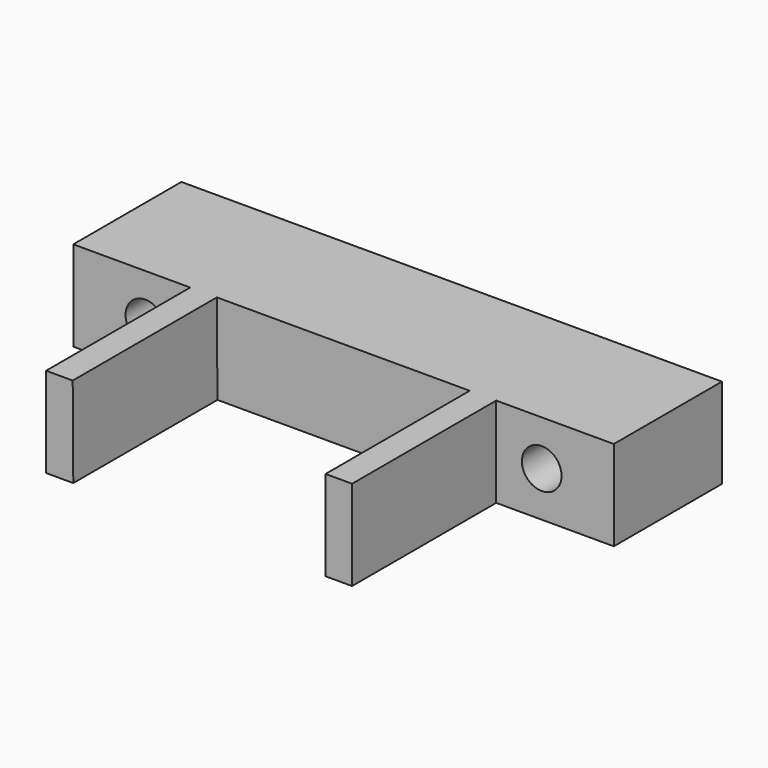
from build123d import *

# Parameters (mm, degrees)
F0_W     = 13
F0_H     = 10
F0_R     = 2.2
F0_W_2   = 3
F0_W_3   = 28
F1_DEPTH = 15
F2_W     = 2.946422
F2_H     = 10
F3_DEPTH = 20


with BuildPart() as f1:
    # F0 (on Front) → F1 (new body)
    with BuildSketch(Plane.XZ):
        with Locations((-54.932694, 5)):
            Rectangle(F0_W, F0_H)
        with Locations((-53.432694, 5)):
            Circle(F0_R, mode=Mode.SUBTRACT)
        with Locations((-46.932694, 5)):
            Rectangle(F0_W_2, F0_H)
        with Locations((-31.432694, 5)):
            Rectangle(F0_W_3, F0_H)
        with Locations((-15.932694, 5)):
            Rectangle(F0_W_2, F0_H)
        with Locations((-7.932694, 5)):
            Rectangle(F0_W, F0_H)
        with Locations((-9.432694, 5)):
            Circle(F0_R, mode=Mode.SUBTRACT)
    extrude(amount=F1_DEPTH)

    # F2 (on face) → F3 (join)
    with BuildSketch(Plane.XZ.offset(15)):
        Polygon((-45.49589, 10), (-48.452619, 10), (-48.452619, 0), (-45.432694, 0), align=None)
        with Locations((-15.959483, 5)):
            Rectangle(F2_W, F2_H)
    extrude(amount=F3_DEPTH)


solid = f1.part
